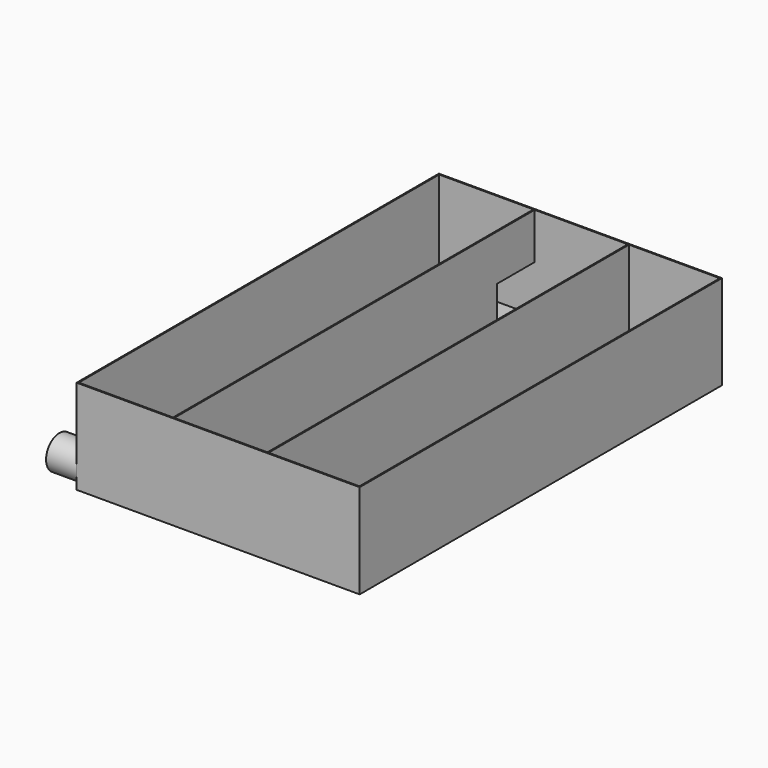
from build123d import *

# Parameters (mm, degrees)
F0_W      = 381
F0_H      = 609.6
F1_DEPTH  = 127
F2_T      = -1.5748
F3_W      = 1.5748
F3_H      = 606.4504
F4_DEPTH  = 125.4252
F5_W      = 63.5
F5_H      = 63.5
F6_DEPTH  = 127
F7_W      = 63.5
F7_H      = 63.5
F8_DEPTH  = 128.5748
F9_R      = 22.479
F10_DEPTH = 41.148
F11_R     = 15.875
F12_DEPTH = 42.7228


with BuildPart() as f1:
    # F0 (on Top) → F1 (new body)
    with BuildSketch(Plane.XY):
        with Locations((190.5, 304.8)):
            Rectangle(F0_W, F0_H)
    extrude(amount=F1_DEPTH)

    # F2
    f2_openings = [f1.faces().sort_by_distance(p)[0] for p in [
        (190.5, 304.8, 127),
    ]]
    offset(amount=F2_T, openings=f2_openings)

    # F3 (on face) → F4 (join, through all)
    with BuildSketch(Plane.XY.offset(1.5748)):
        with Locations((129.3622, 304.8)):
            Rectangle(F3_W, F3_H)
        with Locations((256.3622, 304.8)):
            Rectangle(F3_W, F3_H)
    extrude(amount=F4_DEPTH)

    # F5 (on face) → F6 (cut, through all)
    with BuildSketch(Plane.YZ.offset(257.1496)):
        with Locations((33.3248, 33.3248)):
            Rectangle(F5_W, F5_H)
    extrude(amount=-F6_DEPTH, mode=Mode.SUBTRACT)

    # F7 (on face) → F8 (cut, through all)
    with BuildSketch(Plane.YZ.offset(130.1496)):
        with Locations((576.2752, 33.3248)):
            Rectangle(F7_W, F7_H)
    extrude(amount=-F8_DEPTH, mode=Mode.SUBTRACT)

    # F9 (on face) → F10 (join)
    with BuildSketch(Plane(origin=(0, 0, 0), x_dir=(0, -1, 0), z_dir=(-1, 0, 0))):
        with Locations((-22.479, 22.479)):
            Circle(F9_R)
    extrude(amount=F10_DEPTH)

    # F11 (on face) → F12 (cut, through all)
    with BuildSketch(Plane(origin=(-41.148, 0, 0), x_dir=(0, -1, 0), z_dir=(-1, 0, 0))):
        with Locations((-22.479, 22.479)):
            Circle(F11_R)
    extrude(amount=-F12_DEPTH, mode=Mode.SUBTRACT)


solid = f1.part
